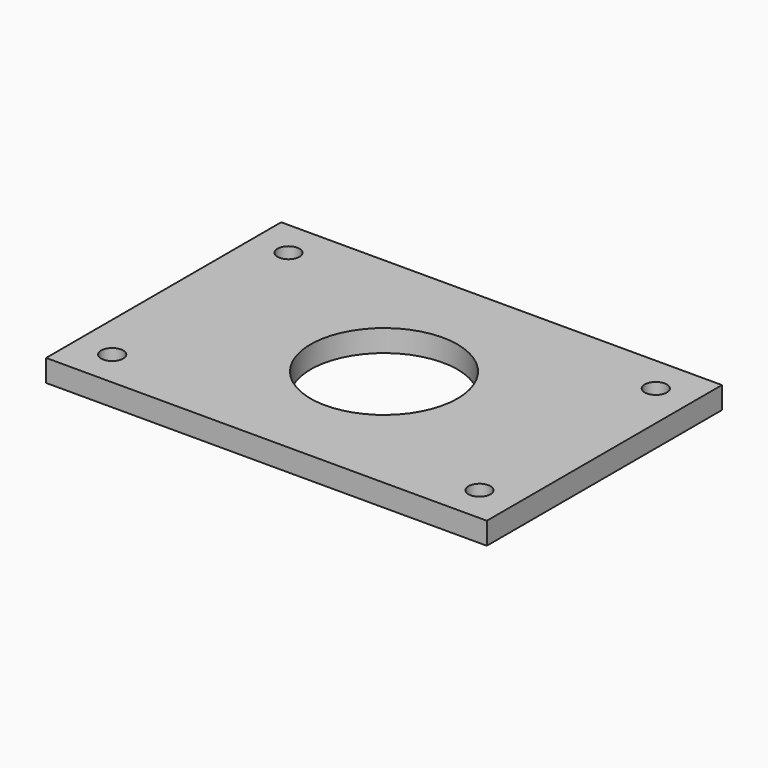
from build123d import *

# Parameters (mm, degrees)
SKETCH_W   = 60
SKETCH_H   = 40
SKETCH_R   = 1.5
SKETCH_R_2 = 10
PAD_DEPTH  = 3


with BuildPart() as part:
    # Sketch → Pad (new body)
    with BuildSketch(Plane.XY):
        Rectangle(SKETCH_W, SKETCH_H)
        with Locations((25, 15)):
            Circle(SKETCH_R, mode=Mode.SUBTRACT)
        with Locations((25, -15)):
            Circle(SKETCH_R, mode=Mode.SUBTRACT)
        with Locations((-25, -15)):
            Circle(SKETCH_R, mode=Mode.SUBTRACT)
        with Locations((-25, 15)):
            Circle(SKETCH_R, mode=Mode.SUBTRACT)
        Circle(SKETCH_R_2, mode=Mode.SUBTRACT)
    extrude(amount=PAD_DEPTH)


solid = part.part
